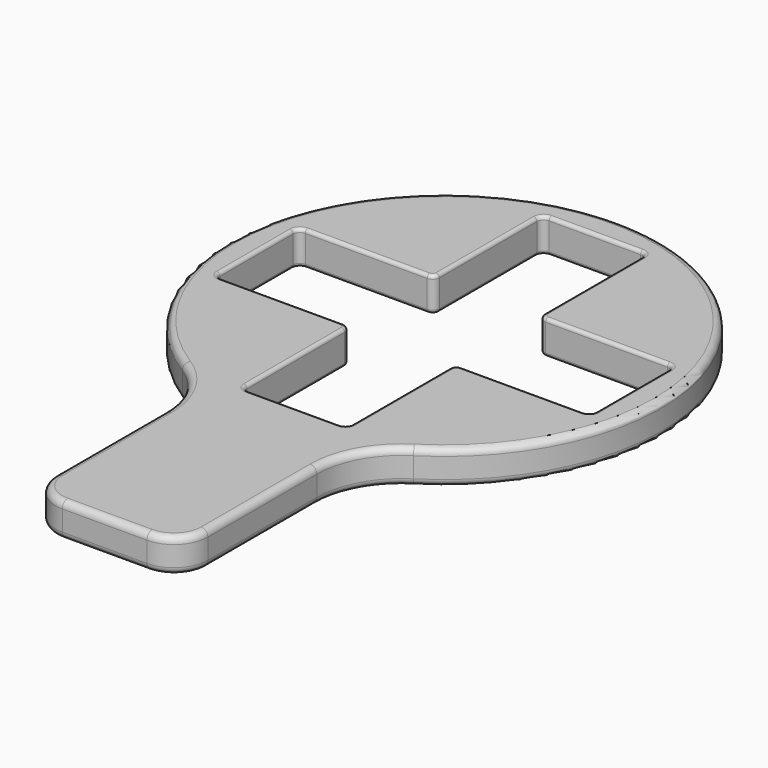
from build123d import *

# Parameters (mm, degrees)
SKETCH_R           = 64
PAD_DEPTH          = 10
SKETCH001_W        = 111
SKETCH001_H        = 31
POCKET_DEPTH       = 372.591678
POLARPATTERN_COUNT = 2
POLARPATTERN_ANGLE = 90
FILLET_R           = 2
SKETCH002_W        = 45
SKETCH002_H        = 70
PAD001_DEPTH       = 10
FILLET001_R        = 10
FILLET002_R        = 25
FILLET003_R        = 2
FILLET004_R        = 1


with BuildPart() as part:
    # Sketch → Pad (new body)
    with BuildSketch(Plane.XY):
        Circle(SKETCH_R)
    extrude(amount=PAD_DEPTH)

    # Sketch001 (on Face3 of Pad) → Pocket (cut, through all)
    with BuildSketch(Plane.XY.offset(10)):
        Rectangle(SKETCH001_W, SKETCH001_H)
    pocket = extrude(amount=-POCKET_DEPTH, mode=Mode.SUBTRACT)

    # PolarPattern: Pocket ×2 about axis
    polarpattern_axis = Axis((0, 0, 10), (0, 0, 1))
    for i in range(1, POLARPATTERN_COUNT):
        add(pocket.rotate(polarpattern_axis, i * POLARPATTERN_ANGLE / (POLARPATTERN_COUNT - 1)), mode=Mode.SUBTRACT)

    # Fillet
    fillet_edges = [part.edges().sort_by_distance(p)[0] for p in [
        (-55.5, 15.5, 5),
        (-15.5, 15.5, 5),
        (-15.5, 55.5, 5),
        (15.5, 55.5, 5),
        (15.5, 15.5, 5),
        (55.5, 15.5, 5),
        (55.5, -15.5, 5),
        (15.5, -15.5, 5),
        (15.5, -55.5, 5),
        (-15.5, -55.5, 5),
        (-15.5, -15.5, 5),
        (-55.5, -15.5, 5),
    ]]
    fillet(fillet_edges, radius=FILLET_R)

    # Sketch002 → Pad001 (join)
    with BuildSketch(Plane.XY):
        with Locations((0, -90.5)):
            Rectangle(SKETCH002_W, SKETCH002_H)
    extrude(amount=PAD001_DEPTH)

    # Fillet001
    fillet001_edges = [part.edges().sort_by_distance(p)[0] for p in [
        (-22.5, -125.5, 5),
        (22.5, -125.5, 5),
    ]]
    fillet(fillet001_edges, radius=FILLET001_R)

    # Fillet002
    fillet002_edges = [part.edges().sort_by_distance(p)[0] for p in [
        (-22.5, -59.914522, 5),
        (22.5, -59.914522, 5),
    ]]
    fillet(fillet002_edges, radius=FILLET002_R)

    # Fillet003
    fillet003_edges = [part.edges().sort_by_distance(p)[0] for p in [
        (22.5, -95.382267, 10),
        (22.5, -95.382267, 0),
    ]]
    fillet(fillet003_edges, radius=FILLET003_R)

    # Fillet004
    fillet004_edges = [part.edges().sort_by_distance(p)[0] for p in [
        (-35.5, 15.5, 10),
        (15.5, -35.5, 0),
    ]]
    fillet(fillet004_edges, radius=FILLET004_R)


solid = part.part
